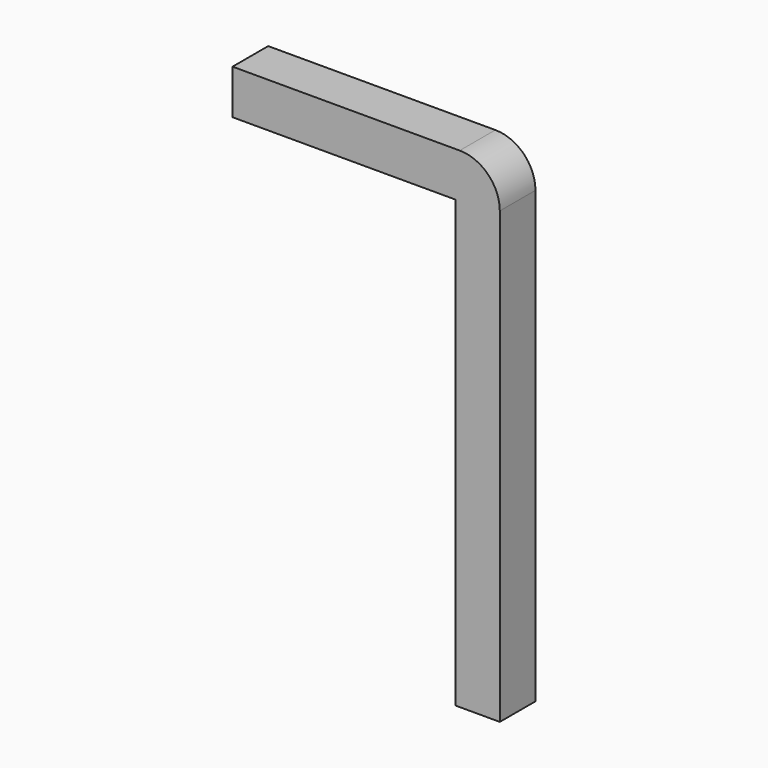
from build123d import *

# Parameters (mm, degrees)
BOX017_W     = 3
BOX017_H     = 0.5
BOX017_DEPTH = 0.5
BOX014_W     = 0.5
BOX014_H     = 0.5
BOX014_DEPTH = 5.5
FILLET006_R  = 0.45


with BuildPart() as kub017:
    # Box017 → Box017 (new body)
    with BuildSketch(Plane(origin=(-2.75, -0.25, 2), x_dir=(1, 0, 0), z_dir=(0, 0, 1))):
        with Locations((1.5, 0.25)):
            Rectangle(BOX017_W, BOX017_H)
    extrude(amount=BOX017_DEPTH)


with BuildPart() as fillet006:
    # Box014 → Box014 (new body)
    with BuildSketch(Plane(origin=(-0.25, -0.25, -3), x_dir=(1, 0, 0), z_dir=(0, 0, 1))):
        with Locations((0.25, 0.25)):
            Rectangle(BOX014_W, BOX014_H)
    extrude(amount=BOX014_DEPTH)

    # Fusion002: union Kub017
    add(kub017.part)

    # Fillet006
    fillet006_edges = [fillet006.edges().sort_by_distance(p)[0] for p in [
        (0.25, 0, 2.5),
    ]]
    fillet(fillet006_edges, radius=FILLET006_R)


solid = fillet006.part
